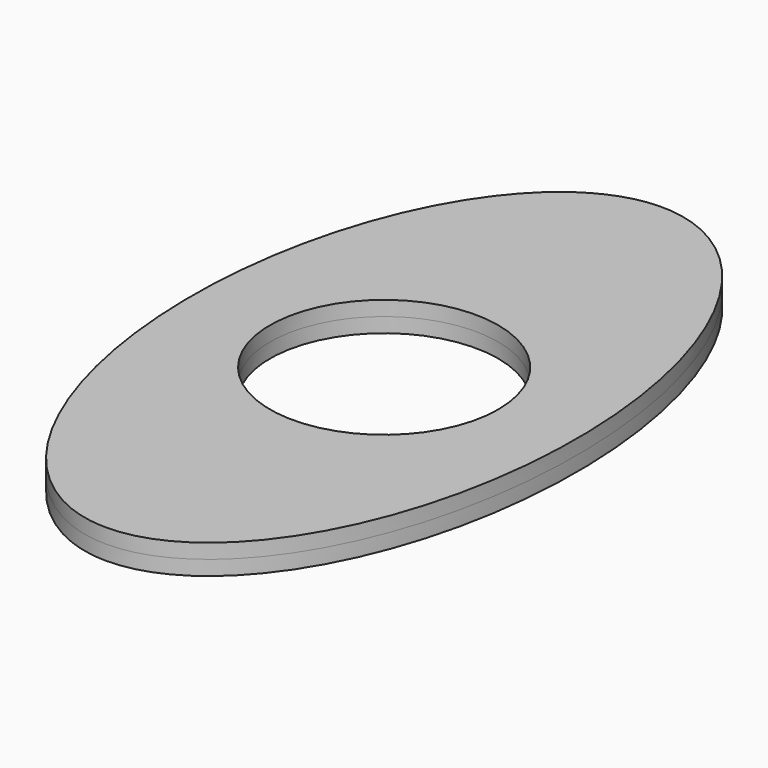
from build123d import *

# Parameters (mm, degrees)
F0_R     = 2.9591
F1_DEPTH = 0.381


with BuildPart() as f1:
    # F0 (on Top) → F1 (new body, symmetric)
    with BuildSketch(Plane.XY):
        with BuildLine():
            add(Edge.make_bspline(
                [(0, -9), (8.660254, -9), (4.330127, 4.5), (0, 18), (-4.330127, 4.5), (-8.660254, -9), (0, -9)],
                knots=[0, 0, 0, 2.094395, 2.094395, 4.18879, 4.18879, 6.283185, 6.283185, 6.283185], degree=2, weights=[1, 0.5, 1, 0.5, 1, 0.5, 1]))
        make_face()
        Circle(F0_R, mode=Mode.SUBTRACT)
    extrude(amount=F1_DEPTH, both=True)


solid = f1.part
